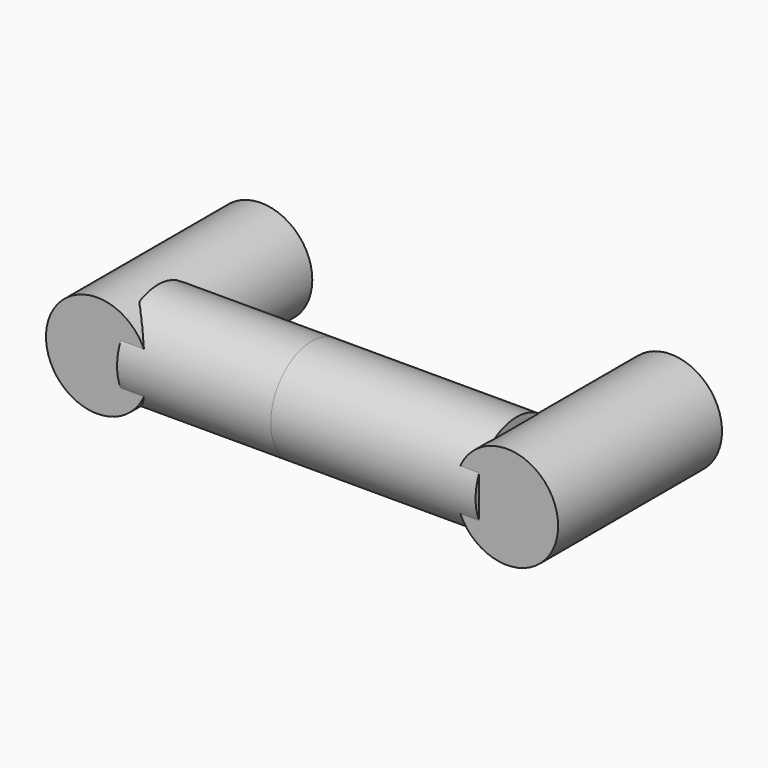
from build123d import *

# Parameters (mm, degrees)
F0_R     = 6.35
F1_DEPTH = 25.4
F2_R     = 6.35
F3_DEPTH = 25.4
F4_DEPTH = 19.05


with BuildPart() as f1:
    # F0 (on Front) → F1 (new body)
    with BuildSketch(Plane.XZ):
        with Locations((-21.957509, 0)):
            Circle(F0_R)
        with BuildLine():
            ThreePointArc((35.192491, 0), (28.842491, 6.35), (22.492491, 0))
            ThreePointArc((22.492491, 0), (28.842491, -6.35), (35.192491, 0))
        make_face()
    extrude(amount=F1_DEPTH)

    # F2 (on Right) → F3 (join)
    with BuildSketch(Plane.YZ):
        with Locations((-19.605861, 0)):
            Circle(F2_R)
    extrude(amount=F3_DEPTH)


with BuildPart() as f4:
    # F2 (on Right) → F4 (new body)
    with BuildSketch(Plane.YZ):
        with Locations((-19.605861, 0)):
            Circle(F2_R)
    extrude(amount=-F4_DEPTH)


solid = Compound([f1.part, f4.part])
